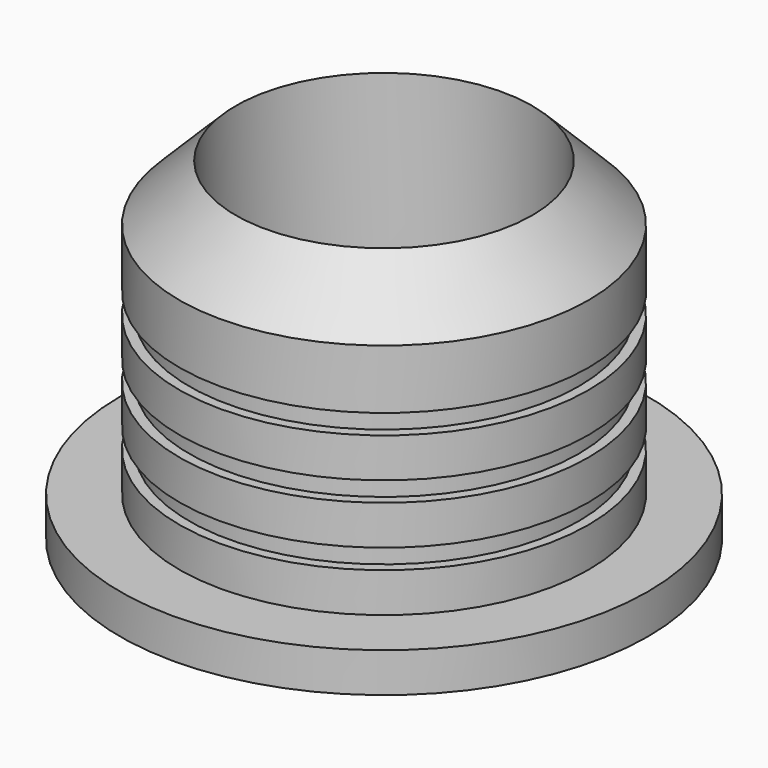
from build123d import *

# Parameters (mm, degrees)
F2_SIZE  = 3
F3_R     = 7.5
F4_DEPTH = 12.9
F5_R     = 3
F6_R     = 1
F7_DEPTH = 25


with BuildPart() as f1:
    # F0 (on Front) → F1 (revolve)
    with BuildSketch(Plane.XZ):
        Polygon((0, 17), (0, 0), (10.35, 0), (13.35, 0), (13.35, 2), (10.35, 2), (10.35, 4), (9.85, 4), (9.85, 5), (10.35, 5), (10.35, 7), (9.85, 7), (9.85, 8), (10.35, 8), (10.35, 10), (9.85, 10), (9.85, 11), (10.35, 11), (10.35, 17), align=None)
    revolve(axis=Axis((0, 0, 12.16054), (0, 0, 1)))

    # F2
    f2_edges = [f1.edges().sort_by_distance(p)[0] for p in [
        (-10.35, 0, 17),
    ]]
    chamfer(f2_edges, length=F2_SIZE)

    # F3 (on face) → F4 (cut)
    with BuildSketch(Plane.XY.offset(17)):
        Circle(F3_R)
    extrude(amount=-F4_DEPTH, mode=Mode.SUBTRACT)

    # F5
    f5_edges = [f1.edges().sort_by_distance(p)[0] for p in [
        (-7.5, 0, 4.1),
    ]]
    fillet(f5_edges, radius=F5_R)

    # F6 (on face) → F7 (cut)
    with BuildSketch(Plane(origin=(0, 0, 0), x_dir=(1, 0, 0), z_dir=(0, 0, -1))):
        Circle(F6_R)
    extrude(amount=-F7_DEPTH, mode=Mode.SUBTRACT)


solid = f1.part
